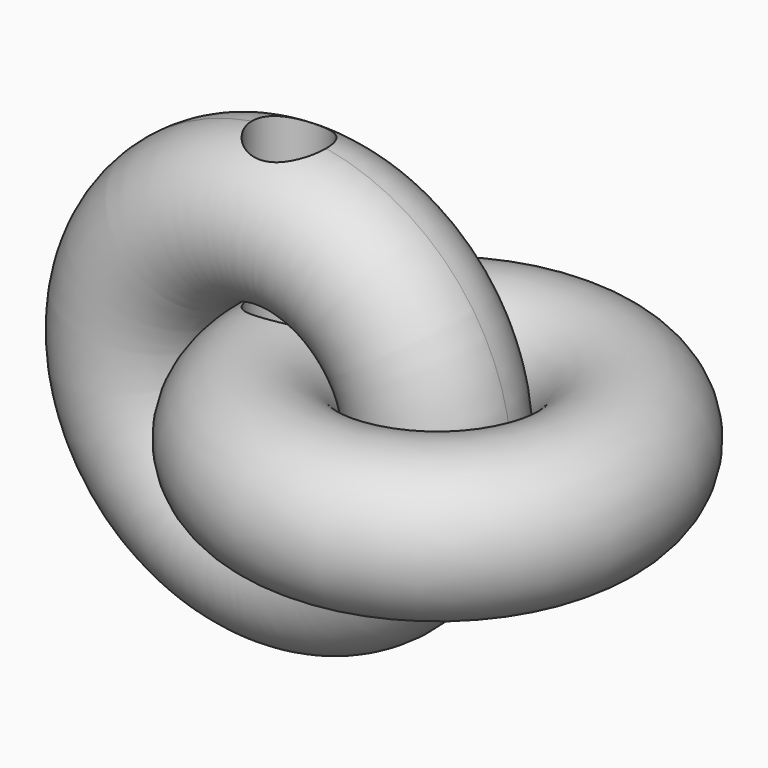
from build123d import *

# Parameters (mm, degrees)
F0_R     = 38.1
F3_R     = 38.1
F6_R     = 19.05
F7_DEPTH = 228.601


with BuildPart() as f2:
    # F0 (on Front) → F2 (revolve)
    with BuildSketch(Plane.XZ):
        Circle(F0_R)
    revolve(axis=Axis((76.2, 0, 0), (0, 0, 1)))

    # F3 (on Top) → F4 (revolve)
    with BuildSketch(Plane.XY):
        with Locations((76.2, 0)):
            Circle(F3_R)
    revolve(axis=Axis((0, 0, 0), (0, -1, 0)))

    # F6 (on offset) → F7 (cut, through all)
    with BuildSketch(Plane.XY.offset(114.3)):
        Circle(F6_R)
    extrude(amount=-F7_DEPTH, mode=Mode.SUBTRACT)


solid = f2.part
